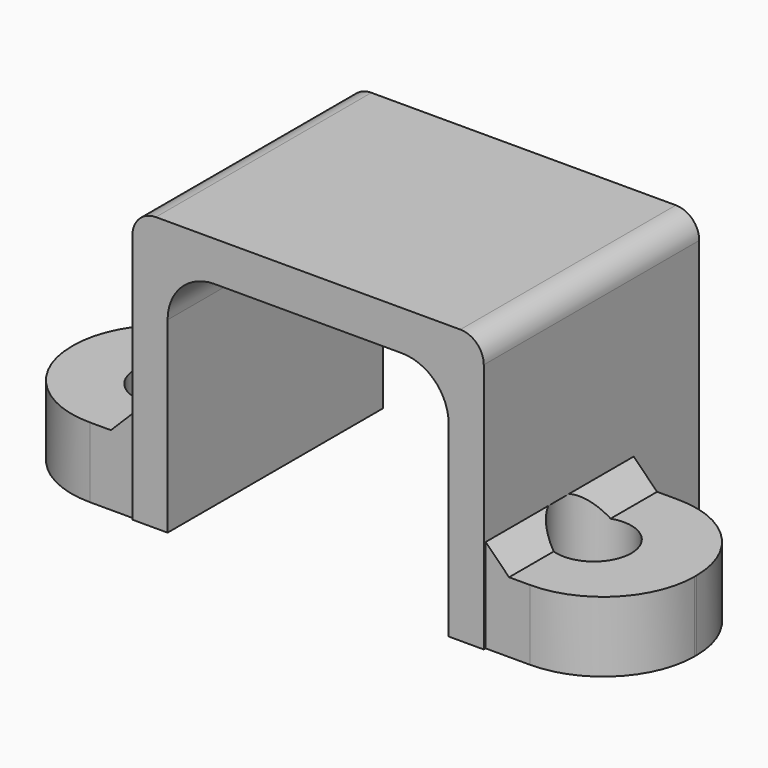
from build123d import *

# Parameters (mm, degrees)
PAD012_DEPTH    = 11.5
FILLET001_R     = 1
FILLET002_R     = 2
SKETCH019_W     = 5.8
SKETCH019_H     = 7.9
PAD013_DEPTH    = 3
CHAMFER_SIZE    = 1
FILLET003_R     = 3.9
SKETCH020_R     = 1.6
POCKET006_DEPTH = 4


with BuildPart() as part:
    # Sketch018 (on DatumPlane) → Pad012 (new body)
    with BuildSketch(Plane.XZ.offset(2.5)):
        Polygon((-7.5, -5), (-7.5, 6.7), (7.5, 6.7), (7.5, -5), (6, -5), (6, 5), (-6, 5), (-6, -5), align=None)
    extrude(amount=PAD012_DEPTH)

    # Fillet001
    fillet001_edges = [part.edges().sort_by_distance(p)[0] for p in [
        (-7.5, -8.25, 6.7),
        (7.5, -8.25, 6.7),
    ]]
    fillet(fillet001_edges, radius=FILLET001_R)

    # Fillet002
    fillet002_edges = [part.edges().sort_by_distance(p)[0] for p in [
        (6, -8.25, 5),
        (-6, -8.25, 5),
    ]]
    fillet(fillet002_edges, radius=FILLET002_R)

    # Sketch019 (on DatumPlane) → Pad013 (join)
    with BuildSketch(Plane.XY.offset(-5)):
        with Locations((10.4, -9.95)):
            Rectangle(SKETCH019_W, SKETCH019_H)
        with Locations((-10.4, -9.95)):
            Rectangle(SKETCH019_W, SKETCH019_H)
    extrude(amount=PAD013_DEPTH)

    # Chamfer
    chamfer_edges = [part.edges().sort_by_distance(p)[0] for p in [
        (7.5, -9.95, -2),
        (-7.5, -9.95, -2),
    ]]
    chamfer(chamfer_edges, length=CHAMFER_SIZE)

    # Fillet003
    fillet003_edges = [part.edges().sort_by_distance(p)[0] for p in [
        (13.3, -6, -3.5),
        (13.3, -13.9, -3.5),
        (-13.3, -13.9, -3.5),
        (-13.3, -6, -3.5),
    ]]
    fillet(fillet003_edges, radius=FILLET003_R)

    # Sketch020 (on DatumPlane) → Pocket006 (cut)
    with BuildSketch(Plane.XY.offset(-5)):
        with Locations((-9, -10)):
            Circle(SKETCH020_R)
        with Locations((9, -10)):
            Circle(SKETCH020_R)
    extrude(amount=POCKET006_DEPTH, mode=Mode.SUBTRACT)


solid = part.part
